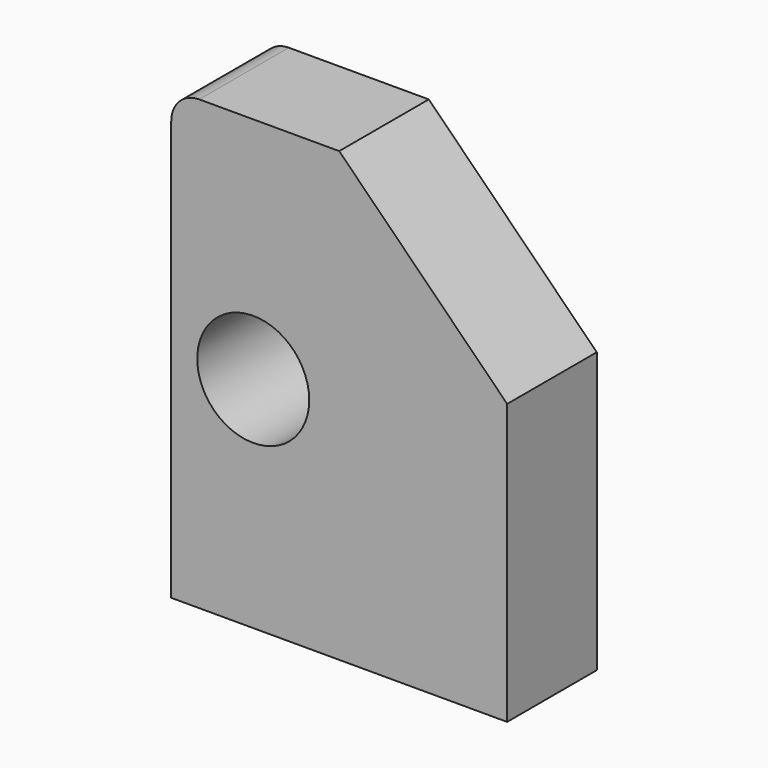
from build123d import *

# Parameters (mm, degrees)
F0_W     = 76.2
F0_H     = 101.6
F0_R     = 12.7
F1_DEPTH = 25.4
F2_SIZE  = 38.1
F3_R     = 6.35


with BuildPart() as f1:
    # F0 (on Front) → F1 (new body)
    with BuildSketch(Plane.XZ):
        with Locations((-39.04419, 1.123819)):
            Rectangle(F0_W, F0_H)
        with Locations((-58.544025, 0)):
            Circle(F0_R, mode=Mode.SUBTRACT)
    extrude(amount=F1_DEPTH)

    # F2
    f2_edges = [f1.edges().sort_by_distance(p)[0] for p in [
        (-0.94419, -12.7, 51.923819),
    ]]
    chamfer(f2_edges, length=F2_SIZE)

    # F3
    f3_edges = [f1.edges().sort_by_distance(p)[0] for p in [
        (-77.14419, -12.7, 51.923819),
    ]]
    fillet(f3_edges, radius=F3_R)


solid = f1.part
